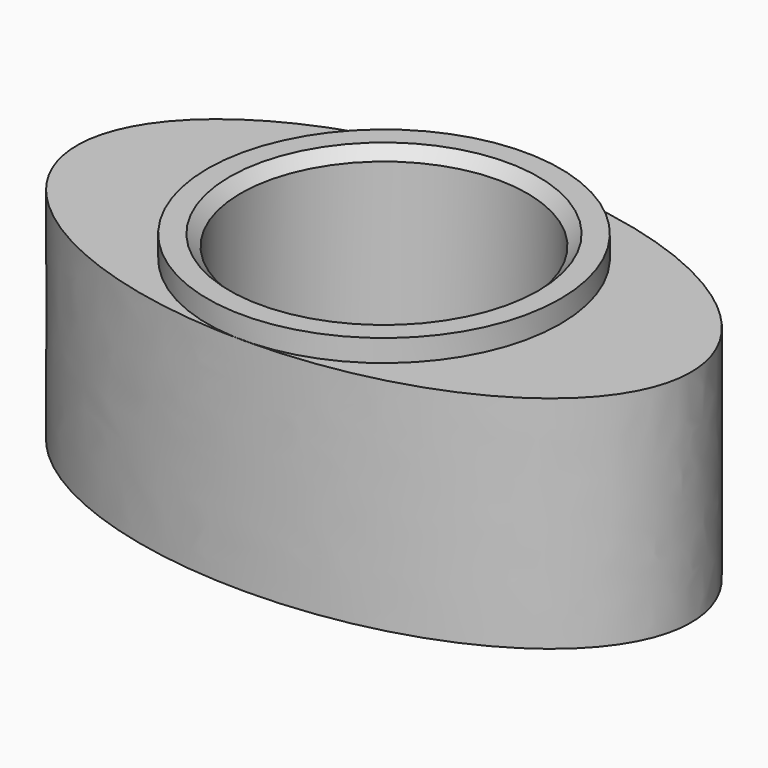
from build123d import *

# Parameters (mm, degrees)
F0_R     = 8
F0_R_2   = 6.5
F1_DEPTH = 11
F0_R_3   = 4.5
F2_DEPTH = 2
F3_DEPTH = 10
F4_SIZE  = 0.5


with BuildPart() as f1:
    # F0 (on Top) → F1 (new body)
    with BuildSketch(Plane.XY):
        Circle(F0_R)
        Circle(F0_R_2, mode=Mode.SUBTRACT)
    extrude(amount=F1_DEPTH)

    # F0 (on Top) → F2 (join)
    with BuildSketch(Plane.XY):
        Circle(F0_R_2)
        Circle(F0_R_3, mode=Mode.SUBTRACT)
    extrude(amount=F2_DEPTH)

    # F0 (on Top) → F3 (join)
    with BuildSketch(Plane.XY):
        with BuildLine():
            add(Edge.make_bspline(
                [(0, 8.006291), (-24.116543, 8.006291), (-12.058271, -4.003146), (0, -16.012583), (12.058271, -4.003146), (24.116543, 8.006291), (0, 8.006291)],
                knots=[4.712389, 4.712389, 4.712389, 6.806784, 6.806784, 8.901179, 8.901179, 10.995574, 10.995574, 10.995574], degree=2, weights=[1, 0.5, 1, 0.5, 1, 0.5, 1]))
        make_face()
        Circle(F0_R, mode=Mode.SUBTRACT)
    extrude(amount=F3_DEPTH)

    # F4
    f4_edges = [f1.edges().sort_by_distance(p)[0] for p in [
        (-6.5, 0, 11),
        (-4.5, 0, 2),
    ]]
    chamfer(f4_edges, length=F4_SIZE)


solid = f1.part
